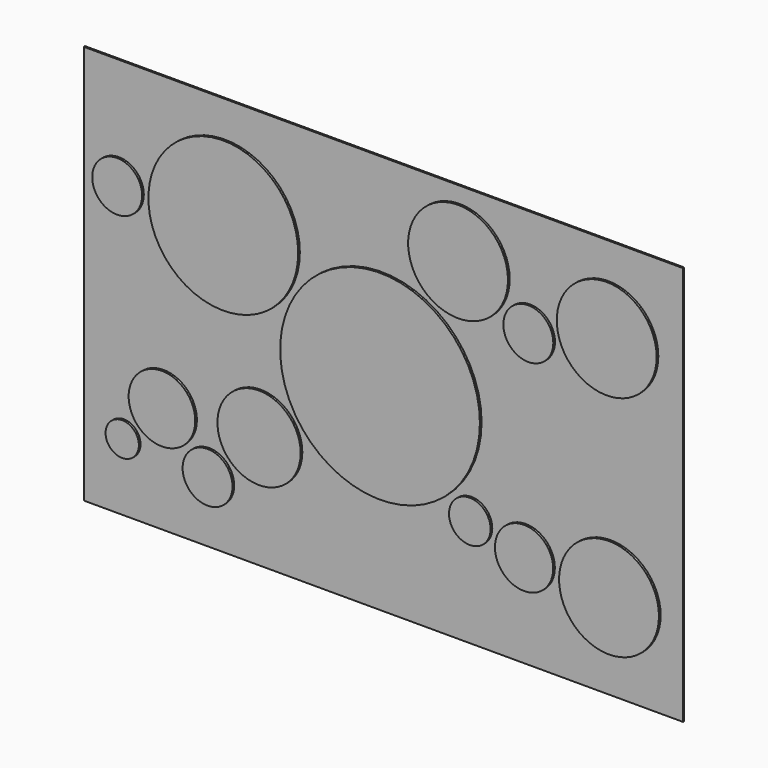
from build123d import *

# Parameters (mm, degrees)
F1_DEPTH = 4.7625
F3_R     = 304.8
F4_DEPTH = 6.35
F3_R_2   = 127
F3_R_3   = 76.2
F3_R_4   = 101.6
F3_R_5   = 50.8
F3_R_6   = 228.6
F3_R_7   = 63.5
F3_R_8   = 88.9
F3_R_9   = 152.4


with BuildPart() as f1:
    # F0 (on Front) → F1 (new body)
    with BuildSketch(Plane.XZ):
        Polygon((-914.4, 0), (0, 0), (914.4, 0), (914.4, 1219.2), (-914.4, 1219.2), align=None)
    extrude(amount=F1_DEPTH)


with BuildPart() as f4:
    # F3 (on offset) → F4 (new body)
    with BuildSketch(Plane.XZ.offset(11.1125)):
        with Locations((0, 609.6)):
            Circle(F3_R)
    extrude(amount=F4_DEPTH)


with BuildPart() as f4b:
    # F3 (on offset) → F4, piece 2 (new body)
    with BuildSketch(Plane.XZ.offset(11.1125)):
        with Locations((-369.3146991677, 351.0030636711)):
            Circle(F3_R_2)
    extrude(amount=F4_DEPTH)


with BuildPart() as f4c:
    # F3 (on offset) → F4, piece 3 (new body)
    with BuildSketch(Plane.XZ.offset(11.1125)):
        with Locations((-526.4691812864, 193.8485815524)):
            Circle(F3_R_3)
    extrude(amount=F4_DEPTH)


with BuildPart() as f4d:
    # F3 (on offset) → F4, piece 4 (new body)
    with BuildSketch(Plane.XZ.offset(11.1125)):
        with Locations((-665.663151163, 333.042551429)):
            Circle(F3_R_4)
    extrude(amount=F4_DEPTH)


with BuildPart() as f4e:
    # F3 (on offset) → F4, piece 5 (new body)
    with BuildSketch(Plane.XZ.offset(11.1125)):
        with Locations((-786.8966087974, 211.8090937946)):
            Circle(F3_R_5)
    extrude(amount=F4_DEPTH)


with BuildPart() as f4f:
    # F3 (on offset) → F4, piece 6 (new body)
    with BuildSketch(Plane.XZ.offset(11.1125)):
        with Locations((-802.2857343207, 885.825)):
            Circle(F3_R_3)
    extrude(amount=F4_DEPTH)


with BuildPart() as f4g:
    # F3 (on offset) → F4, piece 7 (new body)
    with BuildSketch(Plane.XZ.offset(11.1125)):
        with Locations((-478.4357343207, 885.825)):
            Circle(F3_R_6)
    extrude(amount=F4_DEPTH)


with BuildPart() as f4h:
    # F3 (on offset) → F4, piece 8 (new body)
    with BuildSketch(Plane.XZ.offset(11.1125)):
        with Locations((273.8978116926, 335.7021883074)):
            Circle(F3_R_7)
    extrude(amount=F4_DEPTH)


with BuildPart() as f4i:
    # F3 (on offset) → F4, piece 9 (new body)
    with BuildSketch(Plane.XZ.offset(11.1125)):
        with Locations((439.5057946099, 291.3276630246)):
            Circle(F3_R_8)
    extrude(amount=F4_DEPTH)


with BuildPart() as f4j:
    # F3 (on offset) → F4, piece 10 (new body)
    with BuildSketch(Plane.XZ.offset(11.1125)):
        with Locations((698.8650842581, 268.6366654002)):
            Circle(F3_R_9)
    extrude(amount=F4_DEPTH)


with BuildPart() as f4k:
    # F3 (on offset) → F4, piece 11 (new body)
    with BuildSketch(Plane.XZ.offset(11.1125)):
        with Locations((238.125, 1022.0445985523)):
            Circle(F3_R_9)
    extrude(amount=F4_DEPTH)


with BuildPart() as f4l:
    # F3 (on offset) → F4, piece 12 (new body)
    with BuildSketch(Plane.XZ.offset(11.1125)):
        with Locations((452.5961912472, 898.2195985523)):
            Circle(F3_R_3)
    extrude(amount=F4_DEPTH)


with BuildPart() as f4m:
    # F3 (on offset) → F4, piece 13 (new body)
    with BuildSketch(Plane.XZ.offset(11.1125)):
        with Locations((691.8077221277, 962.316135072)):
            Circle(F3_R_9)
    extrude(amount=F4_DEPTH)


solid = Compound([f1.part, f4.part, f4b.part, f4c.part, f4d.part, f4e.part, f4f.part, f4g.part, f4h.part, f4i.part, f4j.part, f4k.part, f4l.part, f4m.part])
